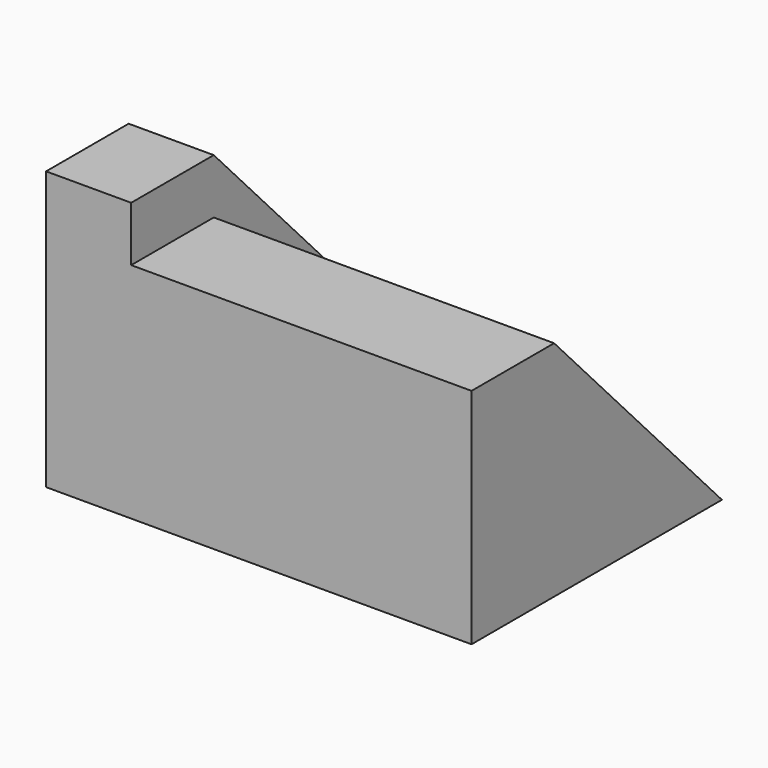
from build123d import *

# Parameters (mm, degrees)
F0_W     = 108.833484
F0_H     = 82.991742
F1_DEPTH = 25.4
F3_DEPTH = 25.4
F5_DEPTH = 101.6
F6_R     = 15.493018
F7_DEPTH = 82.992742


with BuildPart() as f1:
    # F0 (on Right) → F1 (new body)
    with BuildSketch(Plane.YZ):
        Rectangle(F0_W, F0_H)
    extrude(amount=F1_DEPTH)

    # F2 (on face) → F3 (cut)
    with BuildSketch(Plane.YZ.offset(25.4)):
        Polygon((54.416742, 41.495871), (-23.605434, 41.495871), (54.416742, -41.495871), align=None)
    extrude(amount=-F3_DEPTH, mode=Mode.SUBTRACT)

    # F4 (on face) → F5 (join)
    with BuildSketch(Plane.YZ.offset(25.4)):
        Polygon((-54.416742, 25.108964), (-54.416742, -41.495871), (39.011087, -41.495871), (-23.605434, 25.108964), align=None)
    extrude(amount=F5_DEPTH)

    # F6 (on face) → F7 (cut, through all)
    with BuildSketch(Plane(origin=(0, 0, -41.495871), x_dir=(1, 0, 0), z_dir=(0, 0, -1))):
        with Locations((88.741258, 0)):
            Circle(F6_R)
    extrude(amount=-F7_DEPTH, mode=Mode.SUBTRACT)


solid = f1.part
